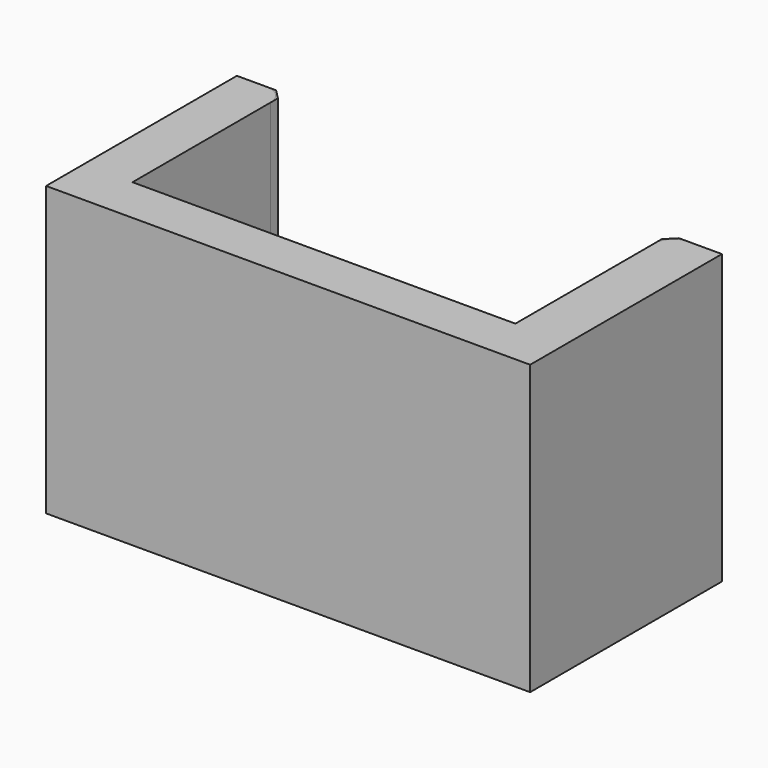
from build123d import *

# Parameters (mm, degrees)
EXTRUDE_DEPTH    = 60
CHAMFER_SIZE     = 2
EXTRUDE001_DEPTH = 60
FILLET_R         = 4


with BuildPart() as chamfer_body:
    # Sketch → Extrude (new body)
    with BuildSketch(Plane.XY):
        Polygon((-49.919125, 49.640652), (-49.919125, 0), (50.830334, 0), (50.830334, 49.894424), (39.917942, 49.894424), (39.917942, 9.797663), (-39.768044, 9.797663), (-39.768044, 49.640652), align=None)
    extrude(amount=EXTRUDE_DEPTH)

    # Chamfer
    chamfer_edges = [chamfer_body.edges().sort_by_distance(p)[0] for p in [
        (-39.768044, 49.640652, 30),
        (39.917942, 49.894424, 30),
    ]]
    chamfer(chamfer_edges, length=CHAMFER_SIZE)


with BuildPart() as fillet_body:
    # Sketch → Extrude001 (new body)
    with BuildSketch(Plane.XY):
        Polygon((-49.919125, 49.640652), (-49.919125, 0), (50.830334, 0), (50.830334, 49.894424), (39.917942, 49.894424), (39.917942, 9.797663), (-39.768044, 9.797663), (-39.768044, 49.640652), align=None)
    extrude(amount=EXTRUDE001_DEPTH)

    # Fillet
    fillet_edges = [fillet_body.edges().sort_by_distance(p)[0] for p in [
        (-39.768044, 49.640652, 30),
        (39.917942, 49.894424, 30),
    ]]
    fillet(fillet_edges, radius=FILLET_R)


solid = Compound([chamfer_body.part, fillet_body.part])
